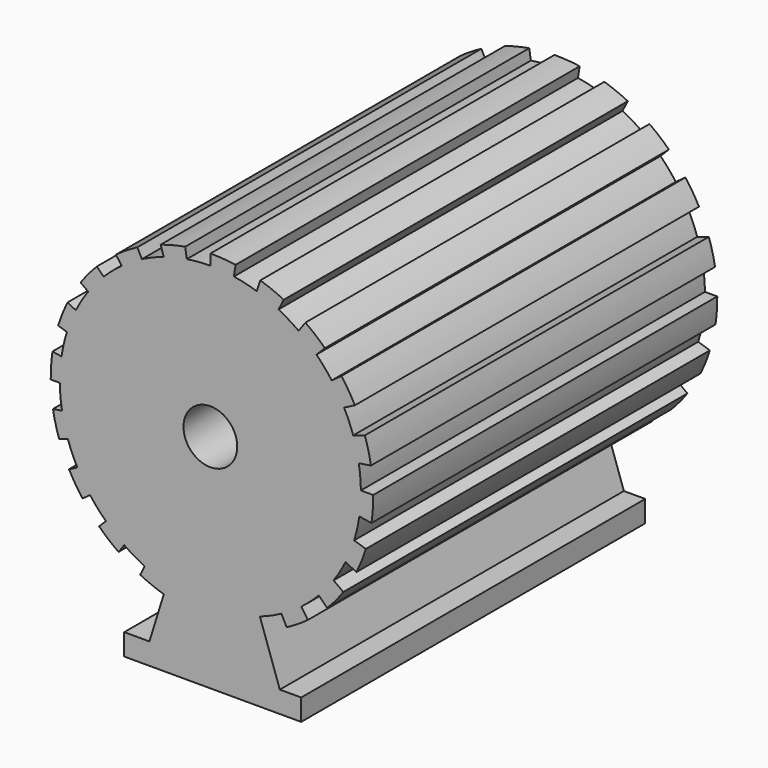
from build123d import *

# Parameters (mm, degrees)
F1_DEPTH = 200


with BuildPart() as f1:
    # F0 (on Front) → F1 (new body, symmetric)
    with BuildSketch(Plane.XZ):
        with BuildLine():
            Line((0, 150), (0, 140))
            ThreePointArc((0, 140), (-10.990919, 139.567904), (-21.913993, 138.274282))
            Line((-21.913993, 138.274282), (-23.441789, 147.920408))
            ThreePointArc((-23.441789, 147.920408), (-34.968111, 145.508317), (-46.269651, 142.199316))
            Line((-46.269651, 142.199316), (-43.322337, 133.128416))
            ThreePointArc((-43.322337, 133.128416), (-53.673121, 129.30273), (-63.690435, 124.673688))
            Line((-63.690435, 124.673688), (-67.921488, 132.977595))
            ThreePointArc((-67.921488, 132.977595), (-78.138294, 127.121731), (-87.86416, 120.482316))
            Line((-87.86416, 120.482316), (-82.50488, 113.105901))
            ThreePointArc((-82.50488, 113.105901), (-91.18094, 106.235757), (-99.287246, 98.701787))
            Line((-99.287246, 98.701787), (-105.606612, 105.021153))
            ThreePointArc((-105.606612, 105.021153), (-113.51381, 96.294728), (-120.711966, 86.974812))
            Line((-120.711966, 86.974812), (-113.607356, 81.81301))
            ThreePointArc((-113.607356, 81.81301), (-119.727162, 72.563122), (-125.095543, 62.857817))
            Line((-125.095543, 62.857817), (-132.808279, 66.787653))
            ThreePointArc((-132.808279, 66.787653), (-137.631858, 56.04487), (-141.597698, 44.956751))
            Line((-141.597698, 44.956751), (-133.453437, 42.31052))
            ThreePointArc((-133.453437, 42.31052), (-136.387276, 31.599222), (-138.462855, 20.689076))
            Line((-138.462855, 20.689076), (-146.8638, 22.019655))
            ThreePointArc((-146.8638, 22.019655), (-148.131594, 10.312094), (-148.476915, -1.458846))
            Line((-148.476915, -1.458846), (-139.992399, -1.458846))
            ThreePointArc((-139.992399, -1.458846), (-139.435962, -12.554384), (-138.001501, -23.570867))
            Line((-138.001501, -23.570867), (-146.397324, -24.900635))
            ThreePointArc((-146.397324, -24.900635), (-143.985232, -36.426957), (-140.676231, -47.728497))
            Line((-140.676231, -47.728497), (-132.541707, -45.085429))
            ThreePointArc((-132.541707, -45.085429), (-128.552613, -55.4457), (-123.755159, -65.457318))
            Line((-123.755159, -65.457318), (-131.454511, -69.380334))
            ThreePointArc((-131.454511, -69.380334), (-125.598646, -79.59714), (-118.959231, -89.323006))
            Line((-118.959231, -89.323006), (-111.870329, -84.172617))
            ThreePointArc((-111.870329, -84.172617), (-104.861356, -92.758267), (-97.195184, -100.762573))
            Line((-97.195184, -100.762573), (-103.498068, -107.065458))
            ThreePointArc((-103.498068, -107.065458), (-94.771643, -114.972656), (-85.451727, -122.170812))
            Line((-85.451727, -122.170812), (-80.108083, -114.815918))
            ThreePointArc((-80.108083, -114.815918), (-70.798197, -120.779201), (-61.046779, -125.989248))
            Line((-61.046779, -125.989248), (-65.264568, -134.267125))
            ThreePointArc((-65.264568, -134.267125), (-54.467372, -139.112599), (-43.321732, -143.09164))
            ThreePointArc((-43.321732, -143.09164), (2.292038, -145.364646), (46.028998, -132.216986))
            ThreePointArc((46.028998, -132.216986), (56.22186, -128.215063), (66.070765, -123.428741))
            Line((66.070765, -123.428741), (70.903418, -132.913357))
            ThreePointArc((70.903418, -132.913357), (81.120225, -127.057492), (90.84609, -120.418077))
            Line((90.84609, -120.418077), (84.471787, -111.644602))
            ThreePointArc((84.471787, -111.644602), (92.915532, -104.722032), (100.794109, -97.162481))
            Line((100.794109, -97.162481), (108.588542, -104.956914))
            ThreePointArc((108.588542, -104.956914), (116.495741, -96.230489), (123.693897, -86.910573))
            Line((123.693897, -86.910573), (114.652585, -80.341675))
            ThreePointArc((114.652585, -80.341675), (120.552663, -71.183252), (125.722736, -61.59378))
            Line((125.722736, -61.59378), (135.790209, -66.723414))
            ThreePointArc((135.790209, -66.723414), (140.613788, -55.980632), (144.579629, -44.892512))
            Line((144.579629, -44.892512), (133.747113, -41.372814))
            ThreePointArc((133.747113, -41.372814), (136.555986, -30.861994), (138.540179, -20.164793))
            Line((138.540179, -20.164793), (149.845731, -21.955417))
            ThreePointArc((149.845731, -21.955417), (151.113525, -10.247856), (151.458846, 1.523085))
            Line((151.458846, 1.523085), (139.991715, 1.523085))
            ThreePointArc((139.991715, 1.523085), (139.451051, 12.385652), (138.068788, 23.173472))
            Line((138.068788, 23.173472), (149.379254, 24.964874))
            ThreePointArc((149.379254, 24.964874), (146.967163, 36.491196), (143.658162, 47.792735))
            Line((143.658162, 47.792735), (132.816291, 44.269998))
            ThreePointArc((132.816291, 44.269998), (128.975931, 54.453735), (124.356076, 64.308369))
            Line((124.356076, 64.308369), (134.436441, 69.444572))
            ThreePointArc((134.436441, 69.444572), (128.580576, 79.661379), (121.941162, 89.387244))
            Line((121.941162, 89.387244), (112.884668, 82.807316))
            ThreePointArc((112.884668, 82.807316), (106.098821, 91.340244), (98.669568, 99.319265))
            Line((98.669568, 99.319265), (106.479999, 107.129696))
            ThreePointArc((106.479999, 107.129696), (97.753574, 115.036895), (88.433658, 122.235051))
            Line((88.433658, 122.235051), (82.044101, 113.440581))
            ThreePointArc((82.044101, 113.440581), (72.944753, 119.495034), (63.400833, 124.82121))
            Line((63.400833, 124.82121), (68.246499, 134.331363))
            ThreePointArc((68.246499, 134.331363), (57.503716, 139.154943), (46.415597, 143.120783))
            Line((46.415597, 143.120783), (43.183531, 133.173506))
            ThreePointArc((43.183531, 133.173506), (32.630677, 136.144184), (21.877732, 138.280023))
            Line((21.877732, 138.280023), (23.478501, 148.386885))
            ThreePointArc((23.478501, 148.386885), (11.77094, 149.654679), (0, 150))
        make_face()
        with BuildLine():
            ThreePointArc((0, 25), (17.67767, 17.67767), (25, 0))
            ThreePointArc((25, 0), (-17.67767, -17.67767), (0, 25))
        make_face(mode=Mode.SUBTRACT)
        with BuildLine():
            ThreePointArc((46.028998, -132.216986), (2.292038, -145.364646), (-43.321732, -143.09164))
            Line((-43.321732, -143.09164), (-56.696378, -186.051216))
            Line((-56.696378, -186.051216), (-80.108083, -186.051216))
            Line((-80.108083, -186.051216), (-80.108083, -206.051216))
            Line((-80.108083, -206.051216), (84.471787, -206.051216))
            Line((84.471787, -206.051216), (84.471787, -186.051216))
            Line((84.471787, -186.051216), (64.606167, -186.051216))
            Line((64.606167, -186.051216), (46.028998, -132.216986))
        make_face()
    extrude(amount=F1_DEPTH, both=True)


solid = f1.part
